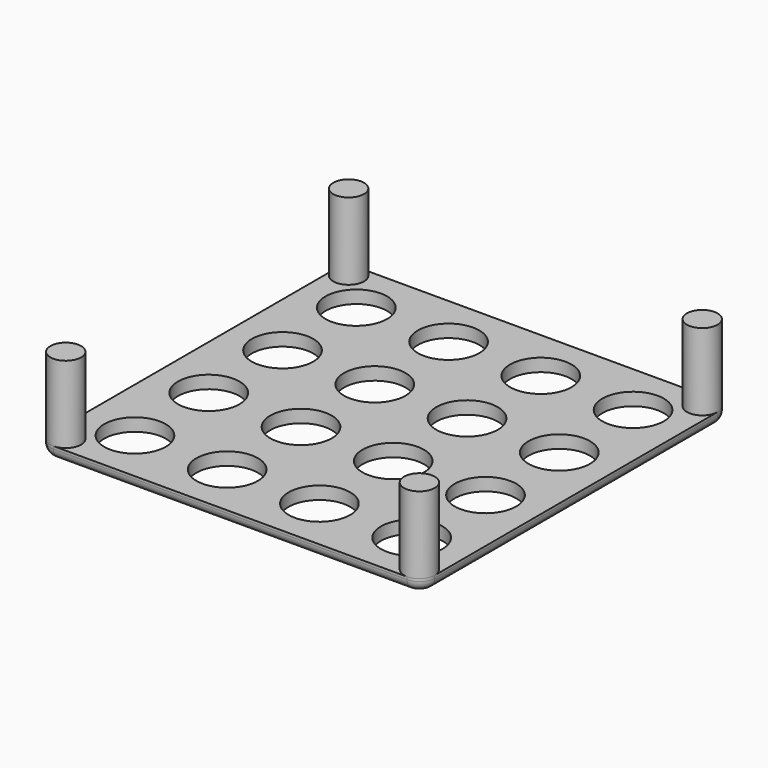
from build123d import *

# Parameters (mm, degrees)
SKETCH_R     = 12
PAD_DEPTH    = 5
SKETCH001_R  = 6
PAD001_DEPTH = 30
FILLET_R     = 4


with BuildPart() as part:
    # Sketch → Pad (new body)
    with BuildSketch(Plane.XY):
        with BuildLine():
            Line((-69, -75), (69, -75))
            ThreePointArc((69, -75), (73.242641, -73.242641), (75, -69))
            Line((75, -69), (75, 69))
            ThreePointArc((75, 69), (73.242641, 73.242641), (69, 75))
            Line((69, 75), (-69, 75))
            ThreePointArc((-69, 75), (-73.242641, 73.242641), (-75, 69))
            Line((-75, 69), (-75, -69))
            ThreePointArc((-75, -69), (-73.242641, -73.242641), (-69, -75))
        make_face()
        with Locations((-54, 54)):
            Circle(SKETCH_R, mode=Mode.SUBTRACT)
        with Locations((-18, 54)):
            Circle(SKETCH_R, mode=Mode.SUBTRACT)
        with Locations((18, 54)):
            Circle(SKETCH_R, mode=Mode.SUBTRACT)
        with Locations((54, 54)):
            Circle(SKETCH_R, mode=Mode.SUBTRACT)
        with Locations((-54, 18)):
            Circle(SKETCH_R, mode=Mode.SUBTRACT)
        with Locations((-18, 18)):
            Circle(SKETCH_R, mode=Mode.SUBTRACT)
        with Locations((18, 18)):
            Circle(SKETCH_R, mode=Mode.SUBTRACT)
        with Locations((54, 18)):
            Circle(SKETCH_R, mode=Mode.SUBTRACT)
        with Locations((-54, -18)):
            Circle(SKETCH_R, mode=Mode.SUBTRACT)
        with Locations((-18, -18)):
            Circle(SKETCH_R, mode=Mode.SUBTRACT)
        with Locations((18, -18)):
            Circle(SKETCH_R, mode=Mode.SUBTRACT)
        with Locations((54, -18)):
            Circle(SKETCH_R, mode=Mode.SUBTRACT)
        with Locations((-54, -54)):
            Circle(SKETCH_R, mode=Mode.SUBTRACT)
        with Locations((-18, -54)):
            Circle(SKETCH_R, mode=Mode.SUBTRACT)
        with Locations((18, -54)):
            Circle(SKETCH_R, mode=Mode.SUBTRACT)
        with Locations((54, -54)):
            Circle(SKETCH_R, mode=Mode.SUBTRACT)
    extrude(amount=PAD_DEPTH)

    # Sketch001 (on Face26 of Pad) → Pad001 (join)
    with BuildSketch(Plane.XY.offset(5)):
        with Locations((-69, 69)):
            Circle(SKETCH001_R)
        with Locations((69, 69)):
            Circle(SKETCH001_R)
        with Locations((69, -69)):
            Circle(SKETCH001_R)
        with Locations((-69, -69)):
            Circle(SKETCH001_R)
    extrude(amount=PAD001_DEPTH)

    # Fillet
    fillet_edges = [part.edges().sort_by_distance(p)[0] for p in [
        (0, -75, 0),
        (-75, 0, 0),
        (0, 75, 0),
        (75, 0, 0),
    ]]
    fillet(fillet_edges, radius=FILLET_R)


solid = part.part
